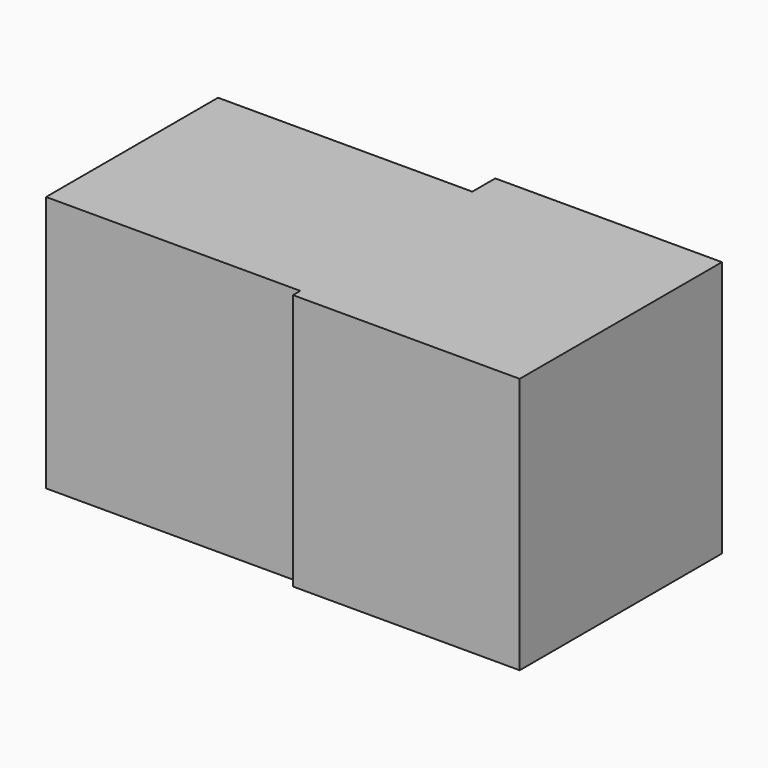
from build123d import *

# Parameters (mm, degrees)
F1_DEPTH = 152.908


with BuildPart() as f1:
    # F0 (on Top) → F1 (new body)
    with BuildSketch(Plane.XY):
        Polygon((-49.63633, 32.579314), (-201.170504, 32.579314), (-201.170504, -35.787358), (-201.170504, -65.645456), (-201.170504, -95.503554), (-49.63633, -95.503554), (-49.63633, -100.958759), (85.442236, -100.958759), (85.442236, 49.683634), (-49.63633, 49.683634), align=None)
    extrude(amount=-F1_DEPTH)


solid = f1.part
